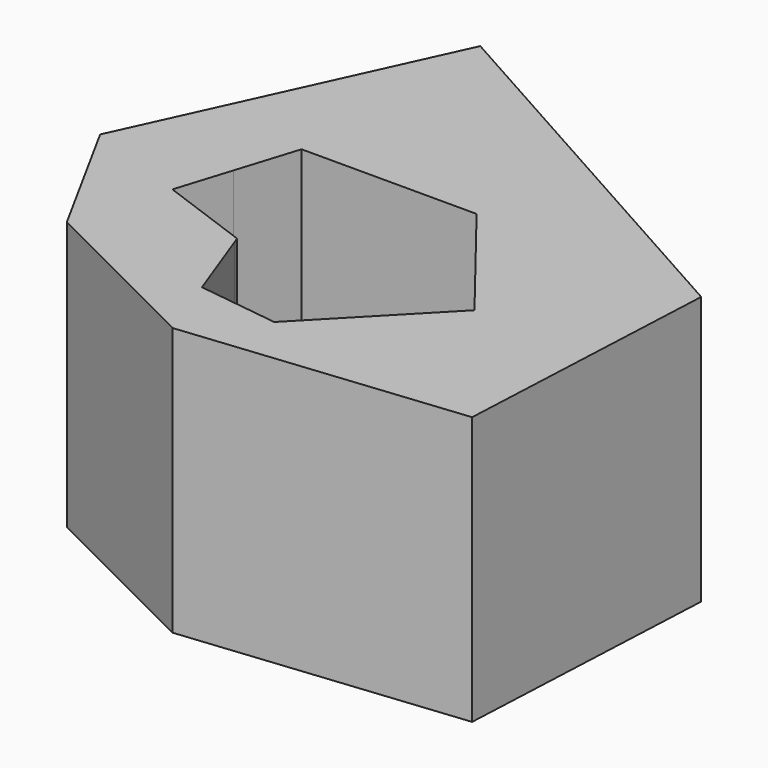
from build123d import *

# Parameters (mm, degrees)
F1_DEPTH = 25.4


with BuildPart() as f1:
    # F0 (on Top) → F1 (new body)
    with BuildSketch(Plane.XY):
        Polygon((-49.4661442935, 49.9131269753), (-49.4661442935, 28.7559218705), (-45.0052889839, 28.7559218705), align=None)
        Polygon((-62.5776574016, 21.3062018156), (-49.4661442935, 28.7559218705), (-49.4661442935, 49.9131269753), align=None)
        Polygon((-51.2835987262, 22.9573797383), (-49.4661442935, 28.7559218705), (-62.5776574016, 21.3062018156), align=None)
        Polygon((-49.4661442935, 49.9131269753), (-45.0052889839, 28.7559218705), (-32.8907538248, 28.7559218705), align=None)
        Polygon((-52.9081679909, 17.7742328277), (-51.2835987262, 22.9573797383), (-62.5776574016, 21.3062018156), align=None)
        Polygon((-11.6215646267, 28.7559218705), (-49.4661442935, 49.9131269753), (-32.8907538248, 28.7559218705), align=None)
        Polygon((-52.9081679909, 17.7742328277), (-62.5776574016, 21.3062018156), (-55.7239130139, 8.7906699628), align=None)
        Polygon((-11.6215646267, 28.7559218705), (-32.8907538248, 28.7559218705), (-30.7049791526, 25.9659494027), align=None)
        Polygon((-44.056481693, 14.0725475488), (-44.2558990488, 14.6138233913), (-52.9081679909, 17.7742328277), (-55.7239130139, 8.7906699628), align=None)
        Polygon((-23.3790820657, 16.6150078645), (-11.6215646267, 28.7559218705), (-27.3222628842, 21.6481734783), align=None)
        Polygon((-12.8135187551, 3.1288827304), (-11.6215646267, 28.7559218705), (-23.3790820657, 16.6150078645), align=None)
        Polygon((-27.3222628842, 21.6481734783), (-11.6215646267, 28.7559218705), (-30.7049791526, 25.9659494027), align=None)
        Polygon((-41.4149532636, 6.9026825177), (-55.7239130139, 8.7906699628), (-39.0365384519, 0.4469832347), align=None)
        Polygon((-44.056481693, 14.0725475488), (-55.7239130139, 8.7906699628), (-41.4149532636, 6.9026825177), align=None)
        Polygon((-30.2658398726, 9.5036823021), (-12.8135187551, 3.1288827304), (-26.9007566578, 12.9784962793), align=None)
        Polygon((-39.0365384519, 0.4469832347), (-12.8135187551, 3.1288827304), (-33.7625144996, 5.8929858967), align=None)
        Polygon((-26.9007566578, 12.9784962793), (-12.8135187551, 3.1288827304), (-23.3790820657, 16.6150078645), align=None)
        Polygon((-33.7625144996, 5.8929858967), (-12.8135187551, 3.1288827304), (-30.2658398726, 9.5036823021), align=None)
        Polygon((-40.3685695275, 6.7646180189), (-39.0365384519, 0.4469832347), (-33.7625144996, 5.8929858967), align=None)
        Polygon((-41.4149532636, 6.9026825177), (-39.0365384519, 0.4469832347), (-40.3685695275, 6.7646180189), align=None)
    extrude(amount=F1_DEPTH)


solid = f1.part
